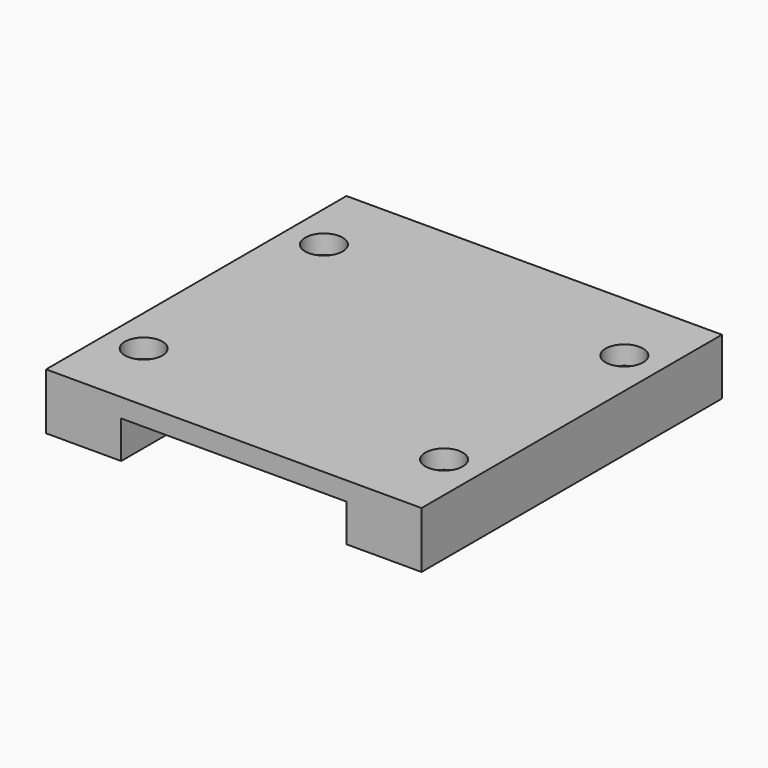
from build123d import *

# Parameters (mm, degrees)
F0_W           = 30
F0_H           = 100
F1_DEPTH       = 5
F0_W_2         = 20
F2_DEPTH       = 10
F2_DEPTH_BACK  = 5
F4_D           = 5
F4_DEPTH       = 30
F4_CBORE_D     = 10
F4_CBORE_DEPTH = 5
F4_TIP         = 1.5021515476


with BuildPart() as f1:
    # F0 (on Top) → F1 (new body)
    with BuildSketch(Plane.XY):
        with Locations((-57.9909870028, 17.9872823166)):
            Rectangle(F0_W, F0_H)
        with Locations((-27.9909870028, 17.9872823166)):
            Rectangle(F0_W, F0_H)
    extrude(amount=F1_DEPTH)

    # F0 (on Top) → F2 (join, two sides)
    with BuildSketch(Plane.XY) as f2_sk:
        with Locations((-82.9909870028, 17.9872823166)):
            Rectangle(F0_W_2, F0_H)
        with Locations((-2.9909870028, 17.9872823166)):
            Rectangle(F0_W_2, F0_H)
    extrude(amount=-F2_DEPTH)
    extrude(f2_sk.sketch, amount=F2_DEPTH_BACK)

    # F4
    with Locations(Plane.XY.offset(5)):
        with Locations((-82.9909870028, -12.0127176834), (-82.9909870028, 47.9872823166), (-2.9909870028, 47.9872823166), (-2.9909870028, -12.0127176834)):
            CounterBoreHole(F4_D / 2, F4_CBORE_D / 2, F4_CBORE_DEPTH, depth=F4_DEPTH)
            with Locations((0, 0, -(F4_DEPTH + F4_TIP / 2))):  # 118° drill point
                Cone(0, F4_D / 2, F4_TIP, mode=Mode.SUBTRACT)


solid = f1.part
